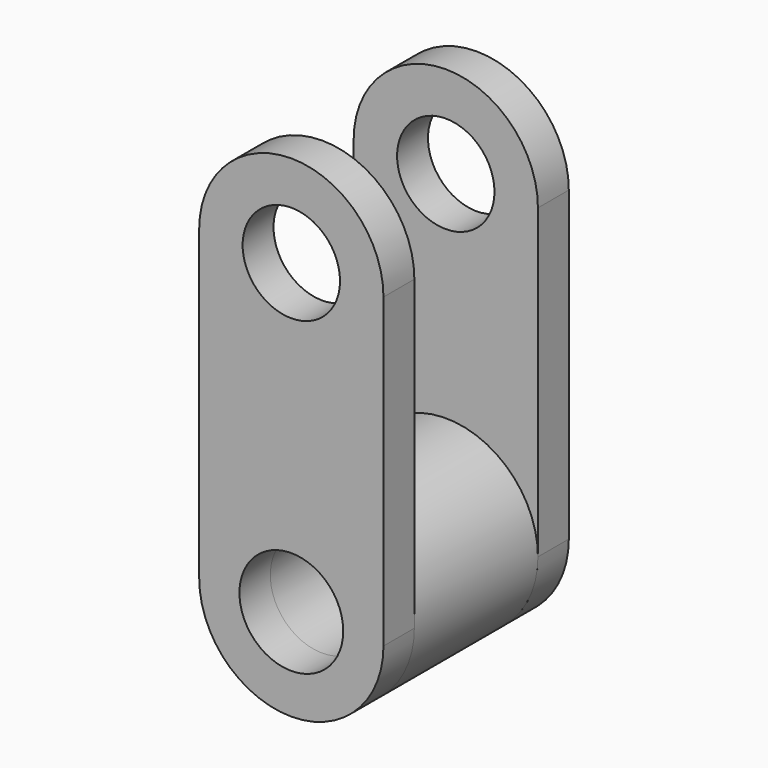
from build123d import *

# Parameters (mm, degrees)
F1_DEPTH = 6.35
F2_DEPTH = 31.75
F3_DEPTH = 25.4
F4_DEPTH = 25.4
F5_R     = 8.007748
F5_R_2   = 8.5344
F6_DEPTH = 38.101


with BuildPart() as f1:
    # F0 (on Front) → F1 (new body)
    with BuildSketch(Plane.XZ):
        with BuildLine():
            ThreePointArc((-15.1511, 50.5206), (0, 35.3695), (15.1511, 50.5206))
            ThreePointArc((15.1511, 50.5206), (0, 65.6717), (-15.1511, 50.5206))
        make_face()
        with BuildLine():
            ThreePointArc((-15.1511, 0), (0, 15.1511), (15.1511, 0))
            Line((15.1511, 0), (15.1511, 50.5206))
            ThreePointArc((15.1511, 50.5206), (0, 35.3695), (-15.1511, 50.5206))
            Line((-15.1511, 50.5206), (-15.1511, 0))
        make_face()
        with BuildLine():
            ThreePointArc((-15.1511, 0), (0, -15.1511), (15.1511, 0))
            ThreePointArc((15.1511, 0), (0, 15.1511), (-15.1511, 0))
        make_face()
    extrude(amount=F1_DEPTH)

    # F0 (on Front) → F2 (join)
    with BuildSketch(Plane.XZ):
        with BuildLine():
            ThreePointArc((-15.1511, 0), (0, -15.1511), (15.1511, 0))
            ThreePointArc((15.1511, 0), (0, 15.1511), (-15.1511, 0))
        make_face()
        with BuildLine():
            ThreePointArc((-15.1511, 0), (0, 15.1511), (15.1511, 0))
            Line((15.1511, 0), (15.1511, 50.5206))
            ThreePointArc((15.1511, 50.5206), (0, 35.3695), (-15.1511, 50.5206))
            Line((-15.1511, 50.5206), (-15.1511, 0))
        make_face()
        with BuildLine():
            ThreePointArc((-15.1511, 50.5206), (0, 35.3695), (15.1511, 50.5206))
            ThreePointArc((15.1511, 50.5206), (0, 65.6717), (-15.1511, 50.5206))
        make_face()
    extrude(amount=-F2_DEPTH)

    # F0 (on Front) → F3 (cut)
    with BuildSketch(Plane.XZ):
        with BuildLine():
            ThreePointArc((-15.1511, 0), (0, -15.1511), (15.1511, 0))
            ThreePointArc((15.1511, 0), (0, 15.1511), (-15.1511, 0))
        make_face()
        with BuildLine():
            ThreePointArc((-15.1511, 0), (0, 15.1511), (15.1511, 0))
            Line((15.1511, 0), (15.1511, 50.5206))
            ThreePointArc((15.1511, 50.5206), (0, 35.3695), (-15.1511, 50.5206))
            Line((-15.1511, 50.5206), (-15.1511, 0))
        make_face()
        with BuildLine():
            ThreePointArc((-15.1511, 50.5206), (0, 35.3695), (15.1511, 50.5206))
            ThreePointArc((15.1511, 50.5206), (0, 65.6717), (-15.1511, 50.5206))
        make_face()
    extrude(amount=-F3_DEPTH, mode=Mode.SUBTRACT)


with BuildPart() as f4:
    # F0 (on Front) → F4 (new body)
    with BuildSketch(Plane.XZ):
        with BuildLine():
            ThreePointArc((-15.1511, 0), (0, -15.1511), (15.1511, 0))
            ThreePointArc((15.1511, 0), (0, 15.1511), (-15.1511, 0))
        make_face()
    extrude(amount=-F4_DEPTH)


with BuildPart() as f6_tool:
    # F5 (on face) → F6 (new body, through all)
    with BuildSketch(Plane.XZ.offset(6.35)):
        with Locations((0, 50.5206)):
            Circle(F5_R)
        Circle(F5_R_2)
    extrude(amount=-F6_DEPTH)


with BuildPart() as f1_1:
    add(f1.part)

    # F6: cut by f6_tool
    add(f6_tool.part, mode=Mode.SUBTRACT)


with BuildPart() as f4_1:
    add(f4.part)

    # F6: cut by f6_tool
    add(f6_tool.part, mode=Mode.SUBTRACT)


solid = Compound([f1_1.part, f4_1.part])
